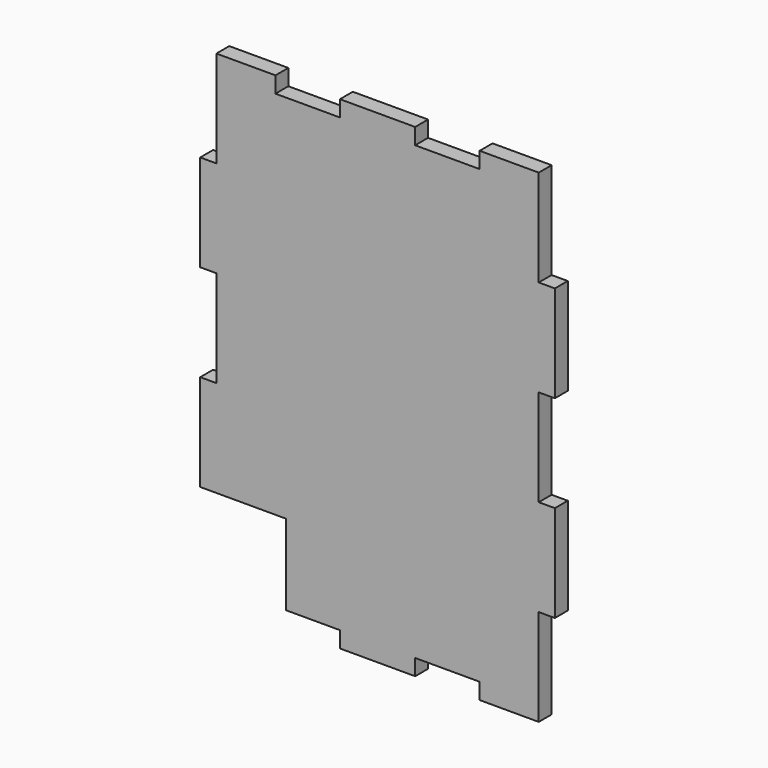
from build123d import *

# Parameters (mm, degrees)
F1_DEPTH = 3


with BuildPart() as f1:
    # F0 (on Front) → F1 (new body)
    with BuildSketch(Plane.XZ):
        Polygon((-19, 45), (-30, 45), (-30, 27), (-33, 27), (-33, 9), (-30, 9), (-30, -9), (-33, -9), (-33, -27), (-30, -27), (-17, -27), (-17, -42), (-7, -42), (-7, -45), (7, -45), (7, -42), (19, -42), (19, -45), (30, -45), (30, -27), (33, -27), (33, -9), (30, -9), (30, 9), (33, 9), (33, 27), (30, 27), (30, 45), (19, 45), (19, 42), (7, 42), (7, 45), (-7, 45), (-7, 42), (-19, 42), align=None)
    extrude(amount=F1_DEPTH)


solid = f1.part
